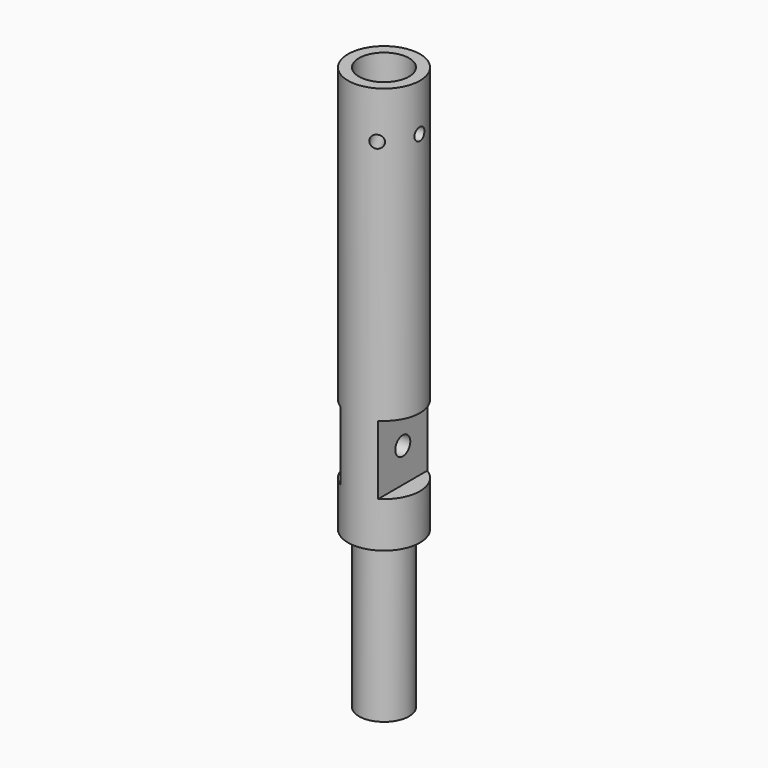
from build123d import *

# Parameters (mm, degrees)
SKETCH_R             = 5.75
PAD_DEPTH            = 106
SKETCH001_R          = 1
POCKET_DEPTH         = 20
POCKET_DEPTH_BACK    = -20
PAD001_DEPTH         = 1
SKETCH003_R          = 1
POCKET001_DEPTH      = 20
POCKET001_DEPTH_BACK = -20
SKETCH005_R          = 4
POCKET003_DEPTH      = 5
POCKET003_DEPTH_BACK = 5
SKETCH006_R          = 2
POCKET004_DEPTH      = 50
SKETCH007_W          = 47.595639
SKETCH007_H          = 11
SKETCH007_W_2        = 12.114317
POCKET005_DEPTH      = 20
POCKET005_DEPTH_BACK = -20
SKETCH008_R          = 1.5
POCKET006_DEPTH      = 8.751
SKETCH009_R          = 12.128258
POCKET007_DEPTH      = 16
SKETCH010_R          = 8.873547
SKETCH010_R_2        = 4
POCKET008_DEPTH      = 25


with BuildPart() as part:
    # Sketch → Pad (new body)
    with BuildSketch(Plane.XY):
        Circle(SKETCH_R)
    extrude(amount=PAD_DEPTH)

    # Sketch001 → Pocket (cut, two sides)
    with BuildSketch(Plane.YZ) as pocket_sk:
        with Locations((0, 98.5)):
            Circle(SKETCH001_R)
    extrude(amount=-POCKET_DEPTH, mode=Mode.SUBTRACT)
    extrude(pocket_sk.sketch, amount=-POCKET_DEPTH_BACK, mode=Mode.SUBTRACT)

    # Sketch002 (on Face4 of Pocket) → Pad001 (join)
    with BuildSketch(Plane.XY.offset(106)):
        Polygon((0, 0), (1, 0.57735), (1, 0), align=None)
    extrude(amount=PAD001_DEPTH)

    # Sketch003 (on Face7 of Pad001) → Pocket001 (cut, two sides)
    with BuildSketch(Plane(origin=(0, 0, 0), x_dir=(-0.866026, -0.5, 0), z_dir=(-0.5, 0.866026, 0))) as pocket001_sk:
        with Locations((0, 98.5)):
            Circle(SKETCH003_R)
    extrude(amount=-POCKET001_DEPTH, mode=Mode.SUBTRACT)
    extrude(pocket001_sk.sketch, amount=-POCKET001_DEPTH_BACK, mode=Mode.SUBTRACT)

    # Sketch005 → Pocket003 (cut, two sides)
    with BuildSketch(Plane.XY.offset(106)) as pocket003_sk:
        Circle(SKETCH005_R)
    extrude(amount=POCKET003_DEPTH, mode=Mode.SUBTRACT)
    extrude(pocket003_sk.sketch, amount=-POCKET003_DEPTH_BACK, mode=Mode.SUBTRACT)

    # Sketch006 (on Face3 of Pocket003) → Pocket004 (cut)
    with BuildSketch(Plane.XY.offset(106)):
        Circle(SKETCH006_R)
    extrude(amount=-POCKET004_DEPTH, mode=Mode.SUBTRACT)

    # Sketch007 → Pocket005 (cut, two sides)
    with BuildSketch(Plane.XZ) as pocket005_sk:
        with Locations((-26.797819, 53.75)):
            Rectangle(SKETCH007_W, SKETCH007_H)
        with Locations((9.057158, 53.75)):
            Rectangle(SKETCH007_W_2, SKETCH007_H)
    extrude(amount=-POCKET005_DEPTH, mode=Mode.SUBTRACT)
    extrude(pocket005_sk.sketch, amount=-POCKET005_DEPTH_BACK, mode=Mode.SUBTRACT)

    # Sketch008 (on Face11 of Pocket005) → Pocket006 (cut, through all)
    with BuildSketch(Plane(origin=(-3, 0, 0), x_dir=(0, -1, 0), z_dir=(-1, 0, 0))):
        with Locations((0, 53.75)):
            Circle(SKETCH008_R)
    extrude(amount=-POCKET006_DEPTH, mode=Mode.SUBTRACT)

    # Sketch009 (on Face2 of Pocket006) → Pocket007 (cut)
    with BuildSketch(Plane(origin=(0, 0, 0), x_dir=(1, 0, 0), z_dir=(0, 0, -1))):
        Circle(SKETCH009_R)
    extrude(amount=-POCKET007_DEPTH, mode=Mode.SUBTRACT)

    # Sketch010 (on Face2 of Pocket007) → Pocket008 (cut)
    with BuildSketch(Plane(origin=(0, 0, 16), x_dir=(1, 0, 0), z_dir=(0, 0, -1))):
        Circle(SKETCH010_R)
        Circle(SKETCH010_R_2, mode=Mode.SUBTRACT)
    extrude(amount=-POCKET008_DEPTH, mode=Mode.SUBTRACT)


solid = part.part
